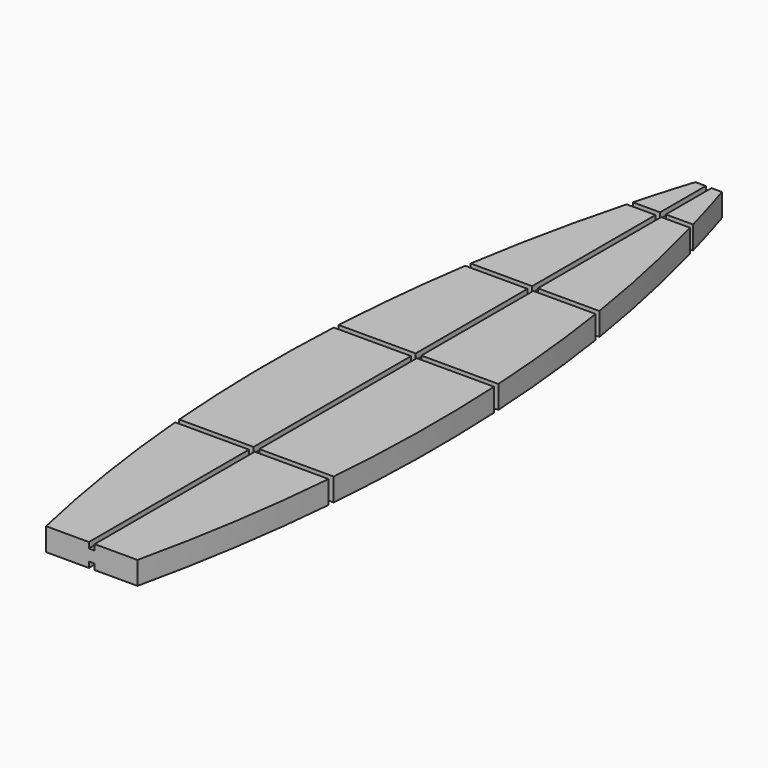
from build123d import *

# Parameters (mm, degrees)
F1_DEPTH = 101.6
F2_W     = 25.4
F2_H     = 25.4
F3_DEPTH = 3657.6


with BuildPart() as f1:
    # F0 (on Top) → F1 (new body)
    with BuildSketch(Plane.XY):
        with BuildLine():
            Line((-203.2, -1803.4), (0, -1803.4))
            Line((0, -1803.4), (203.2, -1803.4))
            ThreePointArc((203.2, -1803.4), (287.566965, -1360.807015), (341.349379, -913.46622))
            Line((341.349379, -913.46622), (0, -913.46622))
            Line((0, -913.46622), (-341.349379, -913.46622))
            ThreePointArc((-341.349379, -913.46622), (-287.566965, -1360.807015), (-203.2, -1803.4))
        make_face()
        with BuildLine():
            Line((0, 1625.6), (-59.115834, 1625.6))
            ThreePointArc((-59.115834, 1625.6), (-97.814793, 1498.977682), (-133.949917, 1371.6))
            Line((-133.949917, 1371.6), (0, 1371.6))
            Line((0, 1371.6), (133.949917, 1371.6))
            ThreePointArc((133.949917, 1371.6), (97.814793, 1498.977682), (59.115834, 1625.6))
            Line((59.115834, 1625.6), (0, 1625.6))
        make_face()
        with BuildLine():
            ThreePointArc((-290.10186, 635), (-329.92529, 324.623079), (-354.899905, 12.7))
            Line((-354.899905, 12.7), (0, 12.7))
            Line((0, 12.7), (354.899905, 12.7))
            ThreePointArc((354.899905, 12.7), (329.92529, 324.623079), (290.10186, 635))
            Line((290.10186, 635), (0, 635))
            Line((0, 635), (-290.10186, 635))
        make_face()
        with BuildLine():
            Line((0, -12.7), (-356.275396, -12.7))
            ThreePointArc((-356.275396, -12.7), (-364.49469, -450.596972), (-343.471537, -888.06622))
            Line((-343.471537, -888.06622), (0, -888.06622))
            Line((0, -888.06622), (343.471537, -888.06622))
            ThreePointArc((343.471537, -888.06622), (364.49469, -450.596972), (356.275396, -12.7))
            Line((356.275396, -12.7), (0, -12.7))
        make_face()
        with BuildLine():
            Line((0, 1346.2), (-140.824574, 1346.2))
            ThreePointArc((-140.824574, 1346.2), (-222.668239, 1005.243282), (-286.173986, 660.4))
            Line((-286.173986, 660.4), (0, 660.4))
            Line((0, 660.4), (286.173986, 660.4))
            ThreePointArc((286.173986, 660.4), (222.668239, 1005.243282), (140.824574, 1346.2))
            Line((140.824574, 1346.2), (0, 1346.2))
        make_face()
    extrude(amount=F1_DEPTH)

    # F2 (on face) → F3 (cut)
    with BuildSketch(Plane.XZ.offset(1803.4)):
        with Locations((0, 88.9)):
            Rectangle(F2_W, F2_H)
        with Locations((0, 12.7)):
            Rectangle(F2_W, F2_H)
    extrude(amount=-F3_DEPTH, mode=Mode.SUBTRACT)


solid = f1.part
